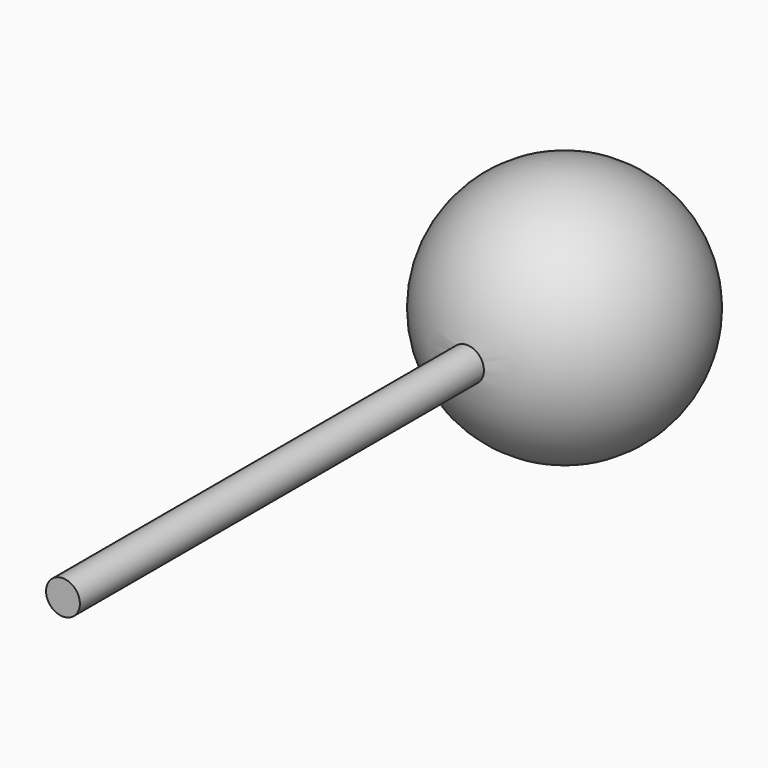
from build123d import *

# Parameters (mm, degrees)
F2_R     = 5.233448
F3_DEPTH = 194.056


with BuildPart() as f1:
    # F0 (on Front) → F1 (revolve)
    with BuildSketch(Plane.XZ):
        with BuildLine():
            Line((0, -38.1), (0, 38.1))
            ThreePointArc((0, 38.1), (-38.1, 0), (0, -38.1))
        make_face()
    revolve(axis=Axis((0, 0, 0), (0, 0, -1)))

    # F2 (on Front) → F3 (join)
    with BuildSketch(Plane.XZ):
        Circle(F2_R)
    extrude(amount=F3_DEPTH)


solid = f1.part
